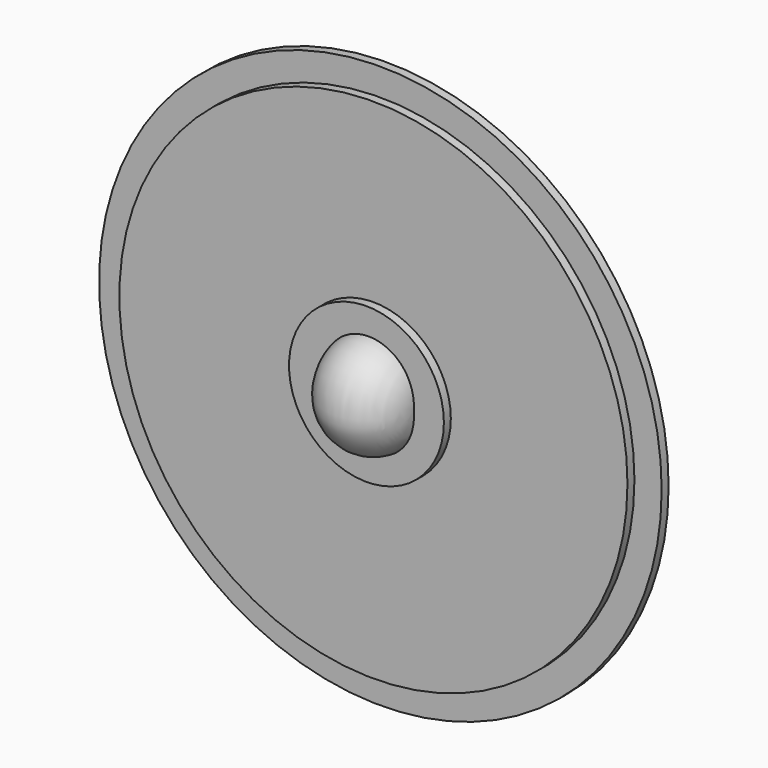
from build123d import *

# Parameters (mm, degrees)
F0_R     = 64.6501661092
F1_DEPTH = 2
F2_R     = 58.3906785059
F3_DEPTH = 2
F6_W     = 64.0570893884
F6_H     = 23.0703689158
F7_DEPTH = 10
F8_R     = 17.7936347266
F9_DEPTH = 2


with BuildPart() as f1:
    # F0 (on Front) → F1 (new body)
    with BuildSketch(Plane.XZ):
        Circle(F0_R)
    extrude(amount=F1_DEPTH)

    # F2 (on face) → F3 (join)
    with BuildSketch(Plane.XZ.offset(2)):
        Circle(F2_R)
    extrude(amount=F3_DEPTH)

    # F4 (on Top) → F5 (revolve)
    with BuildSketch(Plane.XY):
        with BuildLine():
            Line((10.7988948002, -3.8041563239), (-9.8171774298, -4.295015242))
            ThreePointArc((-9.8171774298, -4.295015242), (0.7757822444, -16.0163739159), (10.7988948002, -3.8041563239))
        make_face()
    revolve(axis=Axis((0.4908586852, -4.0495857829, 0), (0.9997166737, 0.0238027806, 0)))

    # F6 (on face) → F7 (join)
    with BuildSketch(Plane(origin=(0, 0, 0), x_dir=(-1, 0, 0), z_dir=(0, 1, 0))):
        with Locations((-0.1227147877, -0.1227147877)):
            Rectangle(F6_W, F6_H)
    extrude(amount=F7_DEPTH)

    # F8 (on face) → F9 (join)
    with BuildSketch(Plane.XZ.offset(4)):
        Circle(F8_R)
    extrude(amount=F9_DEPTH)


solid = f1.part
